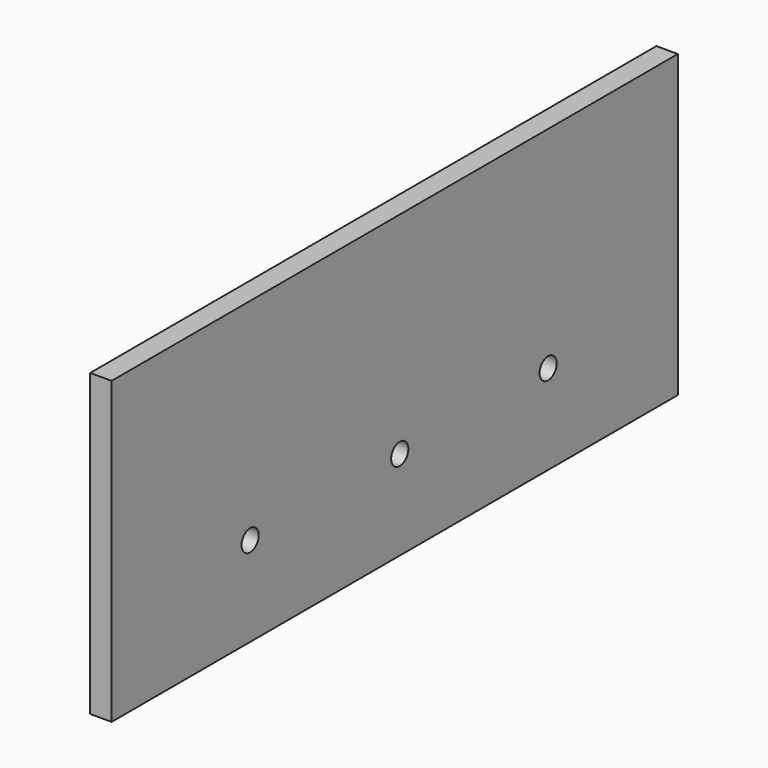
from build123d import *

# Parameters (mm, degrees)
F0_W     = 3.175
F0_H     = 104.775
F1_DEPTH = 44.45
F3_DEPTH = 152.4


with BuildPart() as f1:
    # F0 (on Top) → F1 (new body)
    with BuildSketch(Plane.XY):
        with Locations((22.19739, 18.396585)):
            Rectangle(F0_W, F0_H)
    extrude(amount=F1_DEPTH)

    # F2 (on face) → F3 (cut)
    with BuildSketch(Plane.YZ.offset(23.78489)):
        with BuildLine():
            ThreePointArc((-6.774815, 13.2588), (-8.362315, 14.8463), (-9.949815, 13.2588))
            Line((-9.949815, 13.2588), (-8.362315, 13.2588))
            Line((-8.362315, 13.2588), (-6.774815, 13.2588))
        make_face()
        with BuildLine():
            Line((-8.362315, 13.2588), (-9.949815, 13.2588))
            ThreePointArc((-9.949815, 13.2588), (-8.362315, 11.6713), (-6.774815, 13.2588))
            Line((-6.774815, 13.2588), (-8.362315, 13.2588))
        make_face()
        with BuildLine():
            Line((19.323685, 13.2588), (20.911185, 13.2588))
            ThreePointArc((20.911185, 13.2588), (19.323685, 14.8463), (17.736185, 13.2588))
            Line((17.736185, 13.2588), (19.323685, 13.2588))
        make_face()
        with BuildLine():
            ThreePointArc((17.736185, 13.2588), (19.323685, 11.6713), (20.911185, 13.2588))
            Line((20.911185, 13.2588), (19.323685, 13.2588))
            Line((19.323685, 13.2588), (17.736185, 13.2588))
        make_face()
        with BuildLine():
            ThreePointArc((45.193585, 13.2588), (46.781085, 11.6713), (48.368585, 13.2588))
            ThreePointArc((48.368585, 13.2588), (46.781085, 14.8463), (45.193585, 13.2588))
        make_face()
    extrude(amount=-F3_DEPTH, mode=Mode.SUBTRACT)


solid = f1.part
